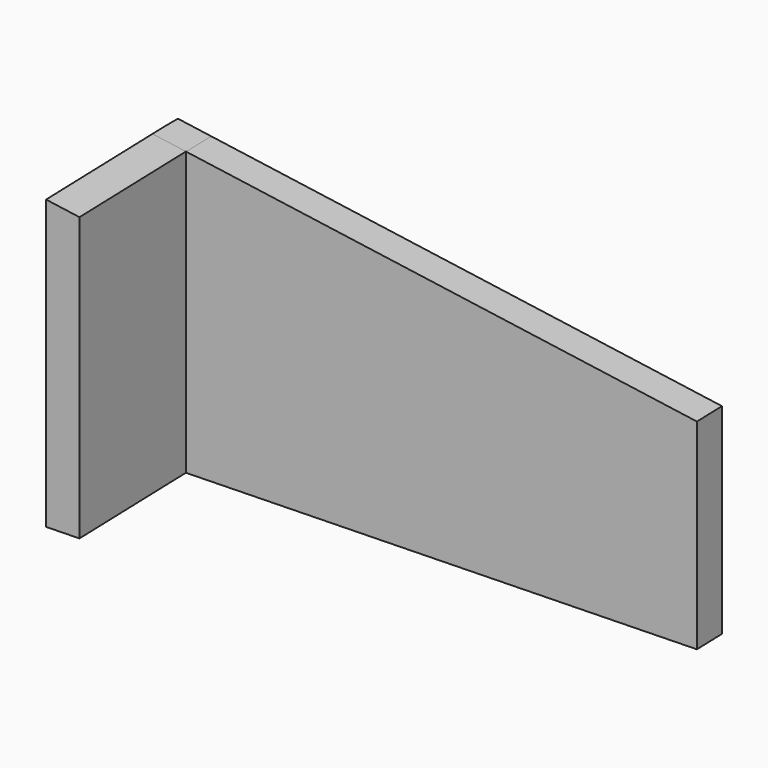
from build123d import *

# Parameters (mm, degrees)
F1_DEPTH      = 11.4
F3_DEPTH      = 25
F5_DEPTH      = 12.5
F7_DEPTH      = 3.62
F9_DEPTH      = 25
F9_DEPTH_BACK = 49.7


with BuildPart() as f1:
    # F0 (on Top) → F1 (new body)
    with BuildSketch(Plane.XY):
        with BuildLine():
            Line((0, 21.6441951712), (18.1235127774, 0))
            Line((18.1235127774, 0), (18.4301963788, 0.256797914))
            Line((18.4301963788, 0.256797914), (0.3066836014, 21.9009930852))
            ThreePointArc((0.3066836014, 21.9009930852), (-3.986202338, 25.1744521896), (-9.269486464, 26.2840976478))
            Line((-9.269486464, 26.2840976478), (-23.1229464174, 25.8354809233))
            Line((-23.1229464174, 25.8354809233), (-23.11, 25.4356904904))
            Line((-23.11, 25.4356904904), (-9.26, 25.8841951712))
            ThreePointArc((-9.26, 25.8841951712), (-4.1511288202, 24.8100317574), (0, 21.6441951712))
        make_face()
        Polygon((-23.1229464174, 25.8354809233), (-9.269486464, 26.2840976478), (-9.2840532536, 26.7339258093), (-23.1267969944, 26.285656108), align=None)
    extrude(amount=F1_DEPTH)

    # F2 (on face) → F3 (cut)
    with BuildSketch(Plane(origin=(10.6537746153, 8.9208131252, 0), x_dir=(0.6419947849, -0.7667090036, 0), z_dir=(-0.7667090036, -0.6419947849, 0))):
        Polygon((-16.5947993131, 4.18), (11.6352006869, 1.35), (11.6352006869, 11.4), (-16.5947993131, 11.4), align=None)
    extrude(amount=-F3_DEPTH, mode=Mode.SUBTRACT)

    # F4 (on face) → F5 (cut, symmetric)
    with BuildSketch(Plane(origin=(-0.8470304755, 26.1566324428, 0), x_dir=(0.9994760824, 0.0323660434, 0), z_dir=(0.0323660434, -0.9994760824, 0))):
        Polygon((-22.2746396009, 7.5215270421), (-21.4173795381, 7.38), (-21.4173795381, 11.4), (-22.2746396009, 11.4), align=None)
        Polygon((-21.4173795381, 7.38), (-8.4173795381, 5.2338), (-8.4173795381, 11.4), (-21.4173795381, 11.4), align=None)
        Polygon((-8.4173795381, 11.4), (-8.4173795381, 5.2338), (0.7005369606, 4.18), (0.7005369606, 11.4), align=None)
        Polygon((0.7005369606, 11.4), (0.7005369606, 4.18), (18.1140175495, 1.35), (18.1140175495, 8.57), (18.1140175495, 11.4), align=None)
    extrude(amount=F5_DEPTH, both=True, mode=Mode.SUBTRACT)

    # F6 (on face) → F7 (join)
    with BuildSketch(Plane(origin=(-0.8470304755, 26.1566324428, 0), x_dir=(0.9994760824, 0.0323660434, 0), z_dir=(0.0323660434, -0.9994760824, 0))):
        Polygon((-22.2746396009, 7.5215270421), (-22.2746396009, 0), (-21.4246396009, 0), (-21.4246396009, 7.3811985805), align=None)
    extrude(amount=F7_DEPTH)

    # F8 (on face) → F9 (cut, two sides)
    with BuildSketch(Plane(origin=(-0.8470304755, 26.1566324428, 0), x_dir=(0.9994760824, 0.0323660434, 0), z_dir=(0.0323660434, -0.9994760824, 0))) as f9_sk:
        Polygon((-8.4173795381, 5.2338), (-8.4173795381, 0), (-8.4173795381, -8.5982028395), (53.2149014449, -45.262684235), (51.573908383, 51.0224351168), (-8.4173795381, 50), align=None)
    extrude(amount=-F9_DEPTH, mode=Mode.SUBTRACT)
    extrude(f9_sk.sketch, amount=F9_DEPTH_BACK, mode=Mode.SUBTRACT)


solid = f1.part
